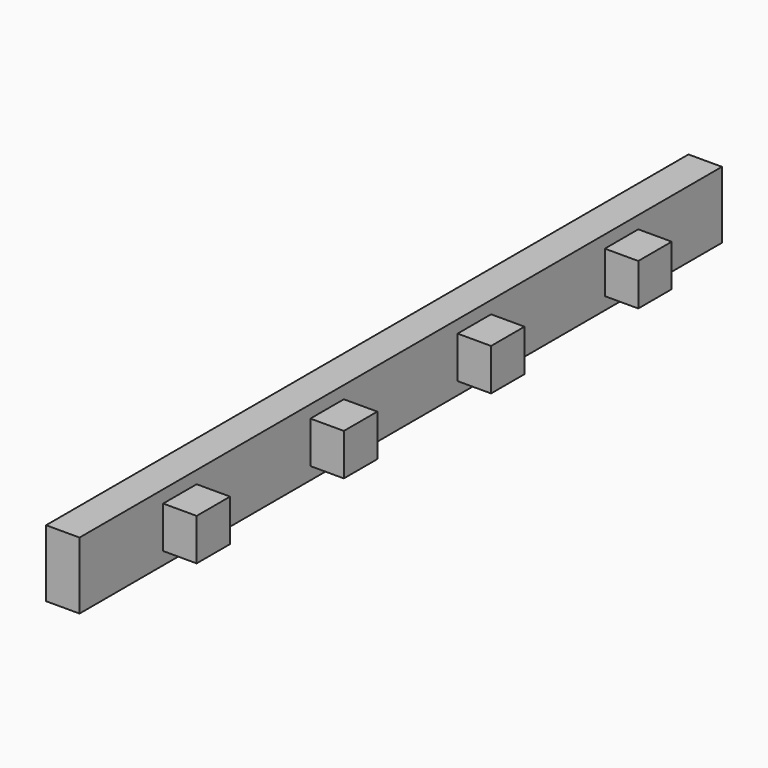
from build123d import *

# Parameters (mm, degrees)
F0_W     = 609.6
F0_H     = 50.8
F1_DEPTH = 25.4
F2_W     = 31.75
F2_H     = 31.75
F3_DEPTH = 25.4


with BuildPart() as f1:
    # F0 (on Right) → F1 (new body)
    with BuildSketch(Plane.YZ):
        with Locations((0, -90.919699)):
            Rectangle(F0_W, F0_H)
    extrude(amount=F1_DEPTH)

    # F2 (on face) → F3 (join)
    with BuildSketch(Plane.YZ.offset(25.4)):
        with Locations((-209.55, -90.919699)):
            Rectangle(F2_W, F2_H)
        with Locations((-69.85, -90.919699)):
            Rectangle(F2_W, F2_H)
        with Locations((69.85, -90.919699)):
            Rectangle(F2_W, F2_H)
        with Locations((209.55, -90.919699)):
            Rectangle(F2_W, F2_H)
    extrude(amount=F3_DEPTH)


solid = f1.part
